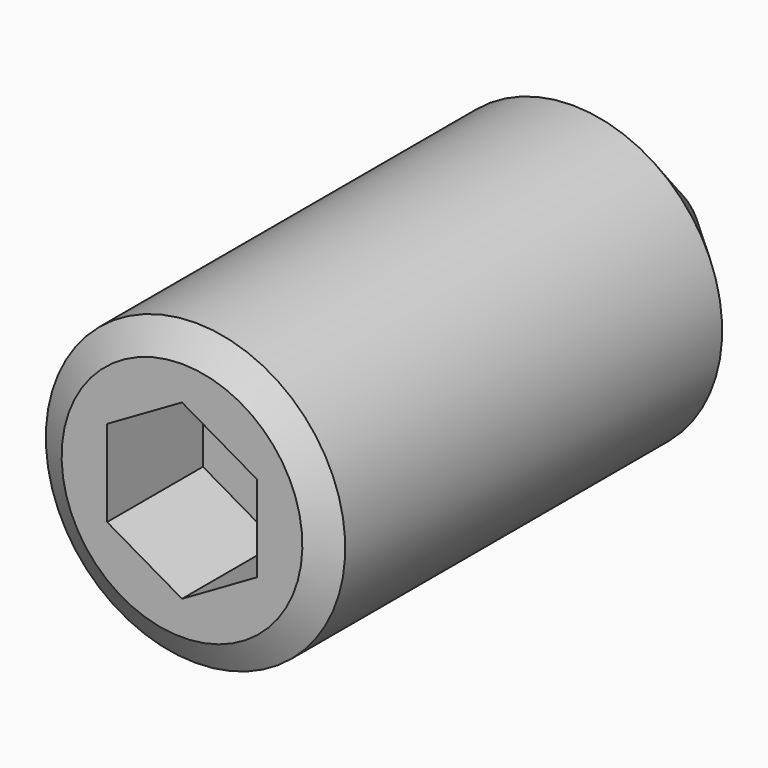
from build123d import *

# Parameters (mm, degrees)
POCKET_DEPTH = 2


with BuildPart() as part:
    # Sketch → Revolution (revolve)
    with BuildSketch(Plane.YZ):
        Polygon((0, 0), (0, 2.01), (0.282902, 2.5), (8.15, 2.5), (10, 0.65), (10, 0), align=None)
    revolve(axis=Axis((0, 0, 0), (0, 1, 0)))

    # Sketch001 → Pocket (cut)
    with BuildSketch(Plane(origin=(0, 0, 0), x_dir=(0, 0, -1), z_dir=(0, -1, 0))):
        Polygon((-0.721688, -1.25), (0.721688, -1.25), (1.443376, 0), (0.721688, 1.25), (-0.721688, 1.25), (-1.443376, 0), align=None)
    extrude(amount=-POCKET_DEPTH, mode=Mode.SUBTRACT)


solid = part.part
